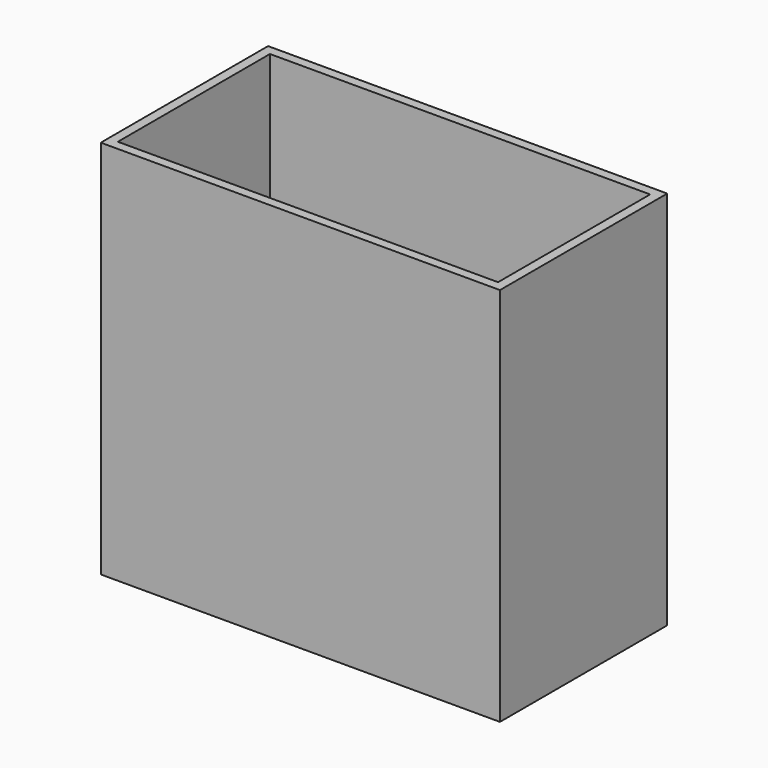
from build123d import *

# Parameters (mm, degrees)
F0_W     = 126
F0_H     = 66
F0_W_2   = 120
F0_H_2   = 60
F1_DEPTH = 120
F0_W_3   = 60
F0_H_3   = 30
F2_DEPTH = 3


with BuildPart() as f1:
    # F0 (on Top) → F1 (new body)
    with BuildSketch(Plane.XY):
        with Locations((-33, 23.062452)):
            Rectangle(F0_W, F0_H)
        with Locations((-33, 23.062452)):
            Rectangle(F0_W_2, F0_H_2, mode=Mode.SUBTRACT)
    extrude(amount=F1_DEPTH)

    # F0 (on Top) → F2 (join)
    with BuildSketch(Plane.XY):
        with Locations((-33, 23.062452)):
            Rectangle(F0_W_2, F0_H_2)
        with Locations((-33, 23.062452)):
            Rectangle(F0_W_3, F0_H_3, mode=Mode.SUBTRACT)
    extrude(amount=F2_DEPTH)


solid = f1.part
